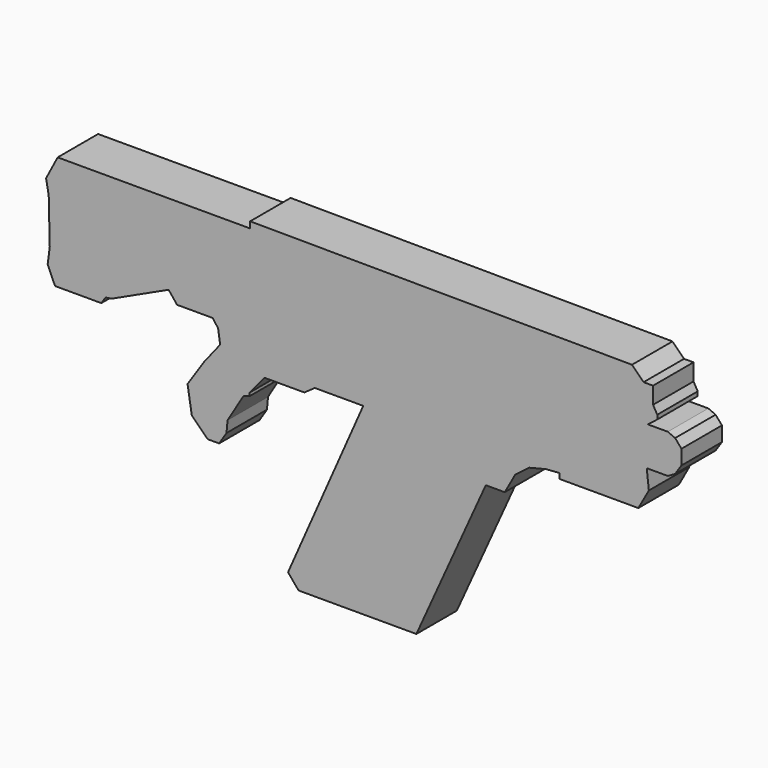
from build123d import *

# Parameters (mm, degrees)
F1_DEPTH = 58.42


with BuildPart() as f1:
    # F0 (on Front) → F1 (new body)
    with BuildSketch(Plane.XZ):
        Polygon((-353.620197, 171.341745), (-366.987277, 145.822746), (-363.949285, 129.417699), (-362.734098, 77.16454), (-365.164497, 58.936687), (-356.658164, 39.493647), (-303.189818, 39.493647), (-298.329045, 46.784793), (-291.037924, 47.99998), (-225.417685, 78.379726), (-215.696165, 66.227833), (-174.379712, 66.227833), (-168.303753, 57.7215), (-165.873379, 41.924046), (-184.101232, 18.835421), (-203.544272, -10.329113), (-198.683499, -40.708859), (-180.455646, -58.936712), (-167.088566, -58.936712), (-158.582233, -45.569632), (-157.367046, -32.202526), (-139.139219, -1.822806), (-131.848073, 0.607593), (-131.848073, 4.253154), (-114.835407, 24.91138), (-68.658207, 24.91138), (-56.506313, 33.417713), (-0.607593, 33.417713), (-87.493653, -164.050624), (-75.341759, -178.632891), (60.759492, -178.632891), (140.962024, -1.215187), (162.835438, -1.215187), (174.987331, 20.658226), (190.784785, 32.81012), (210.227824, 37.670867), (226.025304, 38.886054), (226.025304, 32.81012), (317.164517, 32.81012), (329.31641, 54.683533), (326.886037, 76.556946), (351.189823, 76.556946), (359.696156, 81.417693), (366.987303, 92.3544), (366.987303, 109.367066), (359.696156, 117.873399), (351.189823, 121.518959), (328.101223, 121.518959), (339.03793, 130.025292), (339.03793, 134.88604), (334.177183, 143.392373), (334.177183, 162.835412), (323.240476, 162.835412), (309.873371, 176.202492), (-131.240479, 178.632866), (-131.240479, 171.341745), align=None)
    extrude(amount=F1_DEPTH)


solid = f1.part
